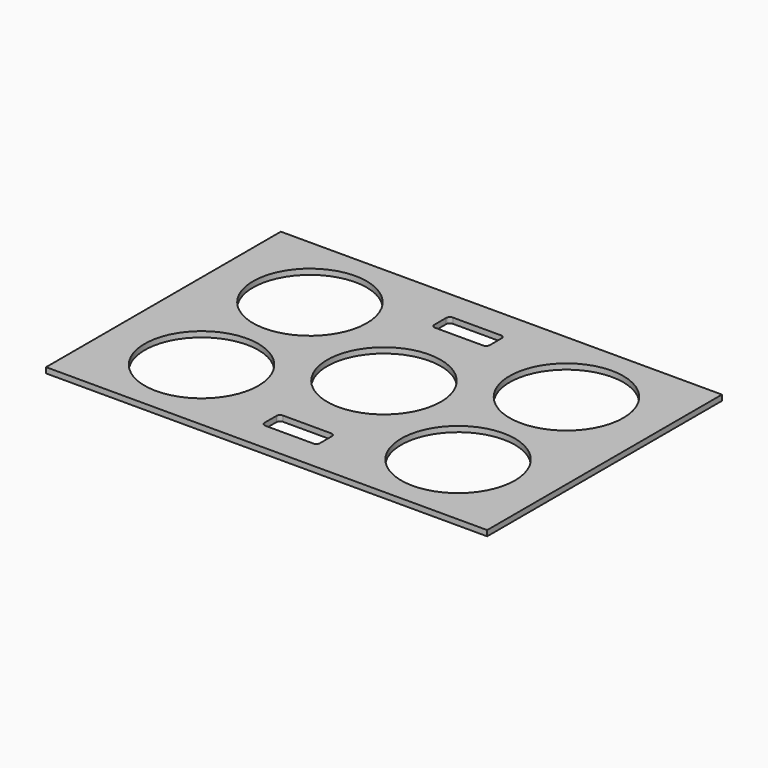
from build123d import *

# Parameters (mm, degrees)
F0_W     = 1195
F0_H     = 795
F0_R     = 154
F1_DEPTH = 15


with BuildPart() as f1:
    # F0 (on Top) → F1 (new body)
    with BuildSketch(Plane.XY):
        with Locations((444.978323, 111.086236)):
            Rectangle(F0_W, F0_H)
        with BuildLine():
            ThreePointArc((367.478323, -156.413764), (370.407255, -149.342696), (377.478323, -146.413764))
            Line((377.478323, -146.413764), (507.478323, -146.413764))
            ThreePointArc((507.478323, -146.413764), (514.549391, -149.342696), (517.478323, -156.413764))
            Line((517.478323, -156.413764), (517.478323, -196.413764))
            ThreePointArc((517.478323, -196.413764), (514.549391, -203.484832), (507.478323, -206.413764))
            Line((507.478323, -206.413764), (377.478323, -206.413764))
            ThreePointArc((377.478323, -206.413764), (370.407255, -203.484832), (367.478323, -196.413764))
            Line((367.478323, -196.413764), (367.478323, -156.413764))
        make_face(mode=Mode.SUBTRACT)
        with Locations((97.478323, -72.413764)):
            Circle(F0_R, mode=Mode.SUBTRACT)
        with Locations((444.978323, 111.086236)):
            Circle(F0_R, mode=Mode.SUBTRACT)
        with Locations((792.478323, -72.413764)):
            Circle(F0_R, mode=Mode.SUBTRACT)
        with Locations((97.478323, 294.586236)):
            Circle(F0_R, mode=Mode.SUBTRACT)
        with BuildLine():
            ThreePointArc((367.478323, 418.586236), (370.407255, 425.657304), (377.478323, 428.586236))
            Line((377.478323, 428.586236), (507.478323, 428.586236))
            ThreePointArc((507.478323, 428.586236), (514.549391, 425.657304), (517.478323, 418.586236))
            Line((517.478323, 418.586236), (517.478323, 378.586236))
            ThreePointArc((517.478323, 378.586236), (514.549391, 371.515168), (507.478323, 368.586236))
            Line((507.478323, 368.586236), (377.478323, 368.586236))
            ThreePointArc((377.478323, 368.586236), (370.407255, 371.515168), (367.478323, 378.586236))
            Line((367.478323, 378.586236), (367.478323, 418.586236))
        make_face(mode=Mode.SUBTRACT)
        with Locations((792.478323, 294.586236)):
            Circle(F0_R, mode=Mode.SUBTRACT)
    extrude(amount=F1_DEPTH)


solid = f1.part
